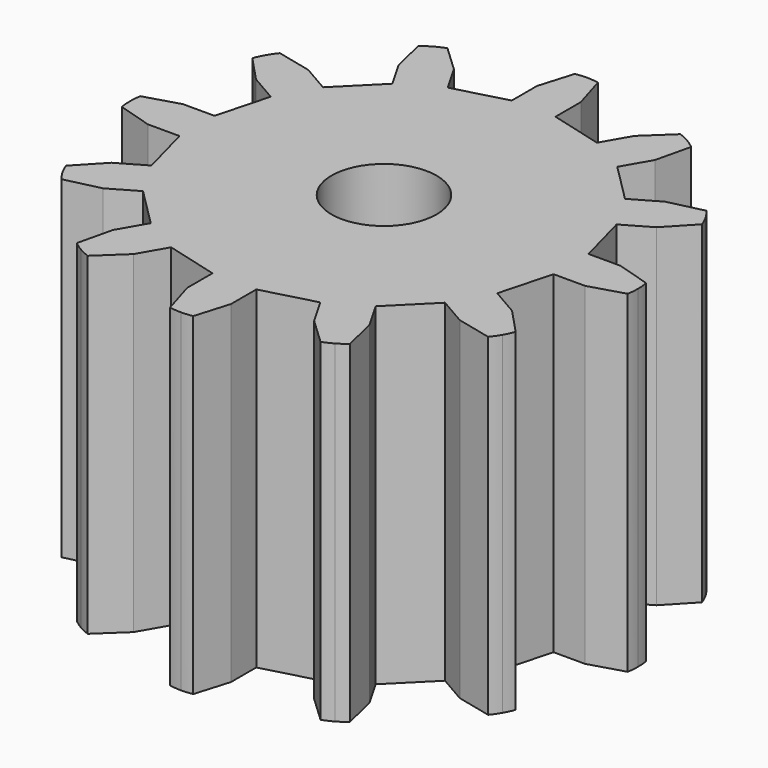
from build123d import *

# Parameters (mm, degrees)
F1_DEPTH = 19
F2_R     = 3
F3_DEPTH = 19.001
F5_DEPTH = 19.001


with BuildPart() as f1:
    # F0 (on Top) → F1 (new body)
    with BuildSketch(Plane.XY):
        with BuildLine():
            ThreePointArc((0.6615248327, 14.4409431122), (0.3320724143, 14.4851453928), (-1e-10, 14.4999996592))
            ThreePointArc((-1e-10, 14.4999996592), (-0.3319821514, 14.4853981451), (-0.6613682325, 14.44146453))
            Line((-0.6613682325, 14.44146453), (-1.25, 12.4815492326))
            Line((-1.25, 12.4815492326), (-1.25, 10.677078252))
            ThreePointArc((-1.25, 10.677078252), (-2.7823047349, 10.3837026326), (-4.2560073713, 9.8716210045))
            ThreePointArc((-4.2560073713, 9.8716210045), (-5.375, 9.3097730907), (-6.4210708807, 8.6216210045))
            ThreePointArc((-6.4210708807, 8.6216210045), (-7.6013978978, 7.6013978978), (-8.6216210045, 6.4210708807))
            ThreePointArc((-8.6216210045, 6.4210708807), (-9.3097730907, 5.375), (-9.8716210045, 4.2560073713))
            ThreePointArc((-9.8716210045, 4.2560073713), (-10.3837026326, 2.7823047349), (-10.677078252, 1.25))
            ThreePointArc((-10.677078252, 1.25), (-10.75, 0), (-10.677078252, -1.25))
            ThreePointArc((-10.677078252, -1.25), (-10.3837026326, -2.7823047349), (-9.8716210045, -4.2560073713))
            ThreePointArc((-9.8716210045, -4.2560073713), (-9.3097730907, -5.375), (-8.6216210045, -6.4210708807))
            ThreePointArc((-8.6216210045, -6.4210708807), (-7.6013978978, -7.6013978978), (-6.4210708807, -8.6216210045))
            ThreePointArc((-6.4210708807, -8.6216210045), (-5.375, -9.3097730907), (-4.2560073713, -9.8716210045))
            ThreePointArc((-4.2560073713, -9.8716210045), (-2.7823047349, -10.3837026326), (-1.25, -10.677078252))
            ThreePointArc((-1.25, -10.677078252), (0, -10.75), (1.25, -10.677078252))
            ThreePointArc((1.25, -10.677078252), (2.7823047349, -10.3837026326), (4.2560073713, -9.8716210045))
            ThreePointArc((4.2560073713, -9.8716210045), (5.375, -9.3097730907), (6.4210708807, -8.6216210045))
            ThreePointArc((6.4210708807, -8.6216210045), (7.6013978978, -7.6013978978), (8.6216210045, -6.4210708807))
            ThreePointArc((8.6216210045, -6.4210708807), (9.3097730907, -5.375), (9.8716210045, -4.2560073713))
            ThreePointArc((9.8716210045, -4.2560073713), (10.3837026326, -2.7823047349), (10.677078252, -1.25))
            ThreePointArc((10.677078252, -1.25), (10.75, 0), (10.677078252, 1.25))
            ThreePointArc((10.677078252, 1.25), (10.3837026326, 2.7823047349), (9.8716210045, 4.2560073713))
            ThreePointArc((9.8716210045, 4.2560073713), (9.3097730907, 5.375), (8.6216210045, 6.4210708807))
            ThreePointArc((8.6216210045, 6.4210708807), (7.6013978978, 7.6013978978), (6.4210708807, 8.6216210045))
            ThreePointArc((6.4210708807, 8.6216210045), (5.375, 9.3097730907), (4.2560073713, 9.8716210045))
            ThreePointArc((4.2560073713, 9.8716210045), (2.7823047349, 10.3837026326), (1.25, 10.677078252))
            Line((1.25, 10.677078252), (1.25, 12.4815492326))
            Line((1.25, 12.4815492326), (0.6615248327, 14.4409431122))
        make_face()
        with BuildLine():
            ThreePointArc((-6.6475742458, 12.8369860061), (-6.9558312731, 12.7101492794), (-7.2516073314, 12.5564402245))
            ThreePointArc((-7.2516073314, 12.5564402245), (-7.530963641, 12.3781985459), (-7.7934939556, 12.1759910346))
            Line((-7.7934939556, 12.1759910346), (-7.323306371, 10.184338714))
            Line((-7.323306371, 10.184338714), (-6.4210708807, 8.6216210045))
            ThreePointArc((-6.4210708807, 8.6216210045), (-5.375, 9.3097730907), (-4.2560073713, 9.8716210045))
            Line((-4.2560073713, 9.8716210045), (-5.1582428616, 11.434338714))
            Line((-5.1582428616, 11.434338714), (-6.6475742458, 12.8369860061))
        make_face()
        with BuildLine():
            ThreePointArc((-12.1754611735, 7.7933688665), (-12.3790012127, 7.5293965451), (-12.5582962553, 7.2483925918))
            ThreePointArc((-12.5582962553, 7.2483925918), (-12.7111050909, 6.9543525953), (-12.8373592671, 6.6479705744))
            Line((-12.8373592671, 6.6479705744), (-11.434338714, 5.1582428616))
            Line((-11.434338714, 5.1582428616), (-9.8716210045, 4.2560073713))
            ThreePointArc((-9.8716210045, 4.2560073713), (-9.3097730907, 5.375), (-8.6216210045, 6.4210708807))
            Line((-8.6216210045, 6.4210708807), (-10.184338714, 7.323306371))
            Line((-10.184338714, 7.323306371), (-12.1754611735, 7.7933688665))
        make_face()
        with BuildLine():
            ThreePointArc((-14.4409431122, 0.6615248327), (-14.4852278378, 0.3311476102), (-14.4999998811, -0.0018569436))
            ThreePointArc((-14.4999998811, -0.0018569436), (-14.4853161751, -0.3329069977), (-14.44146453, -0.6613682325))
            Line((-14.44146453, -0.6613682325), (-12.4815492326, -1.25))
            Line((-12.4815492326, -1.25), (-10.677078252, -1.25))
            ThreePointArc((-10.677078252, -1.25), (-10.75, 0), (-10.677078252, 1.25))
            Line((-10.677078252, 1.25), (-12.4815492326, 1.25))
            Line((-12.4815492326, 1.25), (-14.4409431122, 0.6615248327))
        make_face()
        with BuildLine():
            ThreePointArc((7.7933688665, 12.1754611735), (7.5293965654, 12.3790011985), (7.2483926348, 12.5582962304))
            ThreePointArc((7.2483926348, 12.5582962304), (6.9543526178, 12.7111050804), (6.6479705744, 12.8373592671))
            Line((6.6479705744, 12.8373592671), (5.1582428616, 11.434338714))
            Line((5.1582428616, 11.434338714), (4.2560073713, 9.8716210045))
            ThreePointArc((4.2560073713, 9.8716210045), (5.375, 9.3097730907), (6.4210708807, 8.6216210045))
            Line((6.4210708807, 8.6216210045), (7.323306371, 10.184338714))
            Line((7.323306371, 10.184338714), (7.7933688665, 12.1754611735))
        make_face()
        with BuildLine():
            ThreePointArc((12.8369860061, 6.6475742458), (12.7101492794, 6.9558312731), (12.5564402245, 7.2516073314))
            ThreePointArc((12.5564402245, 7.2516073314), (12.3781985459, 7.530963641), (12.1759910346, 7.7934939556))
            Line((12.1759910346, 7.7934939556), (10.184338714, 7.323306371))
            Line((10.184338714, 7.323306371), (8.6216210045, 6.4210708807))
            ThreePointArc((8.6216210045, 6.4210708807), (9.3097730907, 5.375), (9.8716210045, 4.2560073713))
            Line((9.8716210045, 4.2560073713), (11.434338714, 5.1582428616))
            Line((11.434338714, 5.1582428616), (12.8369860061, 6.6475742458))
        make_face()
        with BuildLine():
            ThreePointArc((14.4409431122, -0.6615248327), (14.4851453928, -0.3320724143), (14.4999996592, 1e-10))
            ThreePointArc((14.4999996592, 1e-10), (14.4853981451, 0.3319821514), (14.44146453, 0.6613682325))
            Line((14.44146453, 0.6613682325), (12.4815492326, 1.25))
            Line((12.4815492326, 1.25), (10.677078252, 1.25))
            ThreePointArc((10.677078252, 1.25), (10.75, 0), (10.677078252, -1.25))
            Line((10.677078252, -1.25), (12.4815492326, -1.25))
            Line((12.4815492326, -1.25), (14.4409431122, -0.6615248327))
        make_face()
        with BuildLine():
            ThreePointArc((-0.6615248327, -14.4409431122), (-0.3311477424, -14.485227826), (0.0018566781, -14.4999998811))
            ThreePointArc((0.0018566781, -14.4999998811), (0.3329068655, -14.4853161868), (0.6613682325, -14.44146453))
            Line((0.6613682325, -14.44146453), (1.25, -12.4815492326))
            Line((1.25, -12.4815492326), (1.25, -10.677078252))
            ThreePointArc((1.25, -10.677078252), (0, -10.75), (-1.25, -10.677078252))
            Line((-1.25, -10.677078252), (-1.25, -12.4815492326))
            Line((-1.25, -12.4815492326), (-0.6615248327, -14.4409431122))
        make_face()
        with BuildLine():
            ThreePointArc((-7.7933688665, -12.1754611735), (-7.5293965528, -12.3790012073), (-7.2483926082, -12.5582962458))
            ThreePointArc((-7.2483926082, -12.5582962458), (-6.9543526039, -12.7111050869), (-6.6479705744, -12.8373592671))
            Line((-6.6479705744, -12.8373592671), (-5.1582428616, -11.434338714))
            Line((-5.1582428616, -11.434338714), (-4.2560073713, -9.8716210045))
            ThreePointArc((-4.2560073713, -9.8716210045), (-5.375, -9.3097730907), (-6.4210708807, -8.6216210045))
            Line((-6.4210708807, -8.6216210045), (-7.323306371, -10.184338714))
            Line((-7.323306371, -10.184338714), (-7.7933688665, -12.1754611735))
        make_face()
        with BuildLine():
            ThreePointArc((-12.8369860061, -6.6475742458), (-12.7101492695, -6.9558312944), (-12.5564402011, -7.251607372))
            ThreePointArc((-12.5564402011, -7.251607372), (-12.3781985325, -7.5309636602), (-12.1759910346, -7.7934939556))
            Line((-12.1759910346, -7.7934939556), (-10.184338714, -7.323306371))
            Line((-10.184338714, -7.323306371), (-8.6216210045, -6.4210708807))
            ThreePointArc((-8.6216210045, -6.4210708807), (-9.3097730907, -5.375), (-9.8716210045, -4.2560073713))
            Line((-9.8716210045, -4.2560073713), (-11.434338714, -5.1582428616))
            Line((-11.434338714, -5.1582428616), (-12.8369860061, -6.6475742458))
        make_face()
        with BuildLine():
            ThreePointArc((12.1754611735, -7.7933688665), (12.3790011928, -7.5293965734), (12.5582962206, -7.2483926518))
            ThreePointArc((12.5582962206, -7.2483926518), (12.7111050763, -6.9543526268), (12.8373592671, -6.6479705744))
            Line((12.8373592671, -6.6479705744), (11.434338714, -5.1582428616))
            Line((11.434338714, -5.1582428616), (9.8716210045, -4.2560073713))
            ThreePointArc((9.8716210045, -4.2560073713), (9.3097730907, -5.375), (8.6216210045, -6.4210708807))
            Line((8.6216210045, -6.4210708807), (10.184338714, -7.323306371))
            Line((10.184338714, -7.323306371), (12.1754611735, -7.7933688665))
        make_face()
        with BuildLine():
            ThreePointArc((6.6475742458, -12.8369860061), (6.9558313313, -12.7101492523), (7.2516074425, -12.5564401603))
            ThreePointArc((7.2516074425, -12.5564401603), (7.5309636935, -12.3781985091), (7.7934939556, -12.1759910346))
            Line((7.7934939556, -12.1759910346), (7.323306371, -10.184338714))
            Line((7.323306371, -10.184338714), (6.4210708807, -8.6216210045))
            ThreePointArc((6.4210708807, -8.6216210045), (5.375, -9.3097730907), (4.2560073713, -9.8716210045))
            Line((4.2560073713, -9.8716210045), (5.1582428616, -11.434338714))
            Line((5.1582428616, -11.434338714), (6.6475742458, -12.8369860061))
        make_face()
    extrude(amount=F1_DEPTH)

    # F2 (on face) → F3 (cut, through all)
    with BuildSketch(Plane.XY.offset(19)):
        Circle(F2_R)
    extrude(amount=-F3_DEPTH, mode=Mode.SUBTRACT)

    # F4 (on face) → F5 (cut, through all)
    with BuildSketch(Plane.XY.offset(19)):
        with BuildLine():
            Line((-10.677078252, 1.25), (-9.8716210045, 4.2560073713))
            ThreePointArc((-9.8716210045, 4.2560073713), (-10.3837026326, 2.7823047349), (-10.677078252, 1.25))
        make_face()
        with BuildLine():
            Line((-9.8716210045, -4.2560073713), (-10.677078252, -1.25))
            ThreePointArc((-10.677078252, -1.25), (-10.3837026326, -2.7823047349), (-9.8716210045, -4.2560073713))
        make_face()
        with BuildLine():
            Line((-8.6216210045, 6.4210708807), (-6.4210708807, 8.6216210045))
            ThreePointArc((-6.4210708807, 8.6216210045), (-7.6013978978, 7.6013978978), (-8.6216210045, 6.4210708807))
        make_face()
        with BuildLine():
            Line((-4.2560073713, 9.8716210045), (-1.25, 10.677078252))
            ThreePointArc((-1.25, 10.677078252), (-2.7823047349, 10.3837026326), (-4.2560073713, 9.8716210045))
        make_face()
        with BuildLine():
            ThreePointArc((4.2560073713, 9.8716210045), (2.7823047349, 10.3837026326), (1.25, 10.677078252))
            Line((1.25, 10.677078252), (4.2560073713, 9.8716210045))
        make_face()
        with BuildLine():
            ThreePointArc((8.6216210045, 6.4210708807), (7.6013978978, 7.6013978978), (6.4210708807, 8.6216210045))
            Line((6.4210708807, 8.6216210045), (8.6216210045, 6.4210708807))
        make_face()
        with BuildLine():
            ThreePointArc((10.677078252, 1.25), (10.3837026326, 2.7823047349), (9.8716210045, 4.2560073713))
            Line((9.8716210045, 4.2560073713), (10.677078252, 1.25))
        make_face()
        with BuildLine():
            ThreePointArc((9.8716210045, -4.2560073713), (10.3837026326, -2.7823047349), (10.677078252, -1.25))
            Line((10.677078252, -1.25), (9.8716210045, -4.2560073713))
        make_face()
        with BuildLine():
            ThreePointArc((6.4210708807, -8.6216210045), (7.6013978978, -7.6013978978), (8.6216210045, -6.4210708807))
            Line((8.6216210045, -6.4210708807), (6.4210708807, -8.6216210045))
        make_face()
        with BuildLine():
            ThreePointArc((1.25, -10.677078252), (2.7823047349, -10.3837026326), (4.2560073713, -9.8716210045))
            Line((4.2560073713, -9.8716210045), (1.25, -10.677078252))
        make_face()
        with BuildLine():
            Line((-1.25, -10.677078252), (-4.2560073713, -9.8716210045))
            ThreePointArc((-4.2560073713, -9.8716210045), (-2.7823047349, -10.3837026326), (-1.25, -10.677078252))
        make_face()
        with BuildLine():
            Line((-6.4210708807, -8.6216210045), (-8.6216210045, -6.4210708807))
            ThreePointArc((-8.6216210045, -6.4210708807), (-7.6013978978, -7.6013978978), (-6.4210708807, -8.6216210045))
        make_face()
    extrude(amount=-F5_DEPTH, mode=Mode.SUBTRACT)


solid = f1.part
